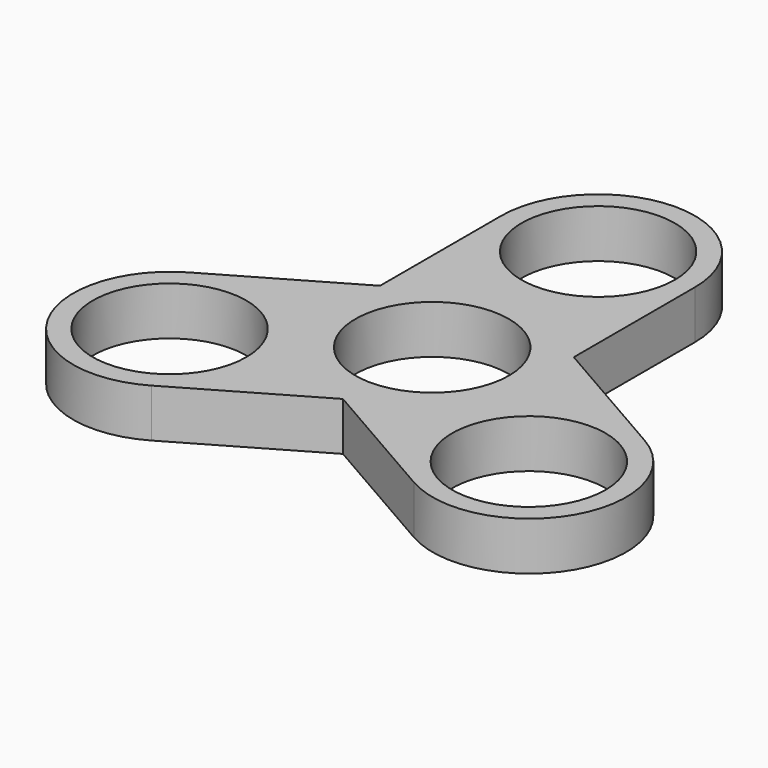
from build123d import *

# Parameters (mm, degrees)
F0_R     = 11.1
F1_DEPTH = 3.5


with BuildPart() as f1:
    # F0 (on Top) → F1 (new body, symmetric)
    with BuildSketch(Plane.XY):
        with BuildLine():
            Line((14, 8.102072), (14, 30))
            ThreePointArc((14, 30), (0, 44), (-14, 30))
            Line((-14, 30), (-14, 8.073346))
            Line((-14, 8.073346), (-32.931604, -2.882694))
            ThreePointArc((-32.931604, -2.882694), (-38.036367, -22.012289), (-18.906772, -27.117051))
            Line((-18.906772, -27.117051), (0.024862, -16.160994))
            Line((0.024862, -16.160994), (19.036338, -27.085309))
            ThreePointArc((19.036338, -27.085309), (38.150136, -21.921712), (32.986539, -2.807914))
            Line((32.986539, -2.807914), (14, 8.102072))
        make_face()
        with Locations((-25.980762, -15)):
            Circle(F0_R, mode=Mode.SUBTRACT)
        Circle(F0_R, mode=Mode.SUBTRACT)
        with Locations((25.980762, -15)):
            Circle(F0_R, mode=Mode.SUBTRACT)
        with Locations((0, 30)):
            Circle(F0_R, mode=Mode.SUBTRACT)
    extrude(amount=F1_DEPTH, both=True)


solid = f1.part
